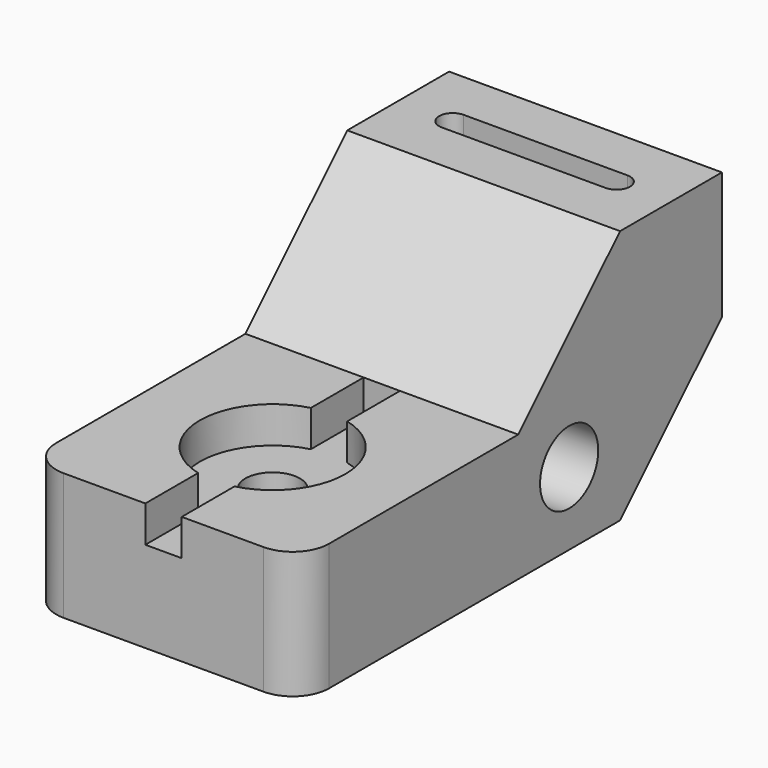
from build123d import *

# Parameters (mm, degrees)
F1_DEPTH       = 76.2
F3_DEPTH       = 35.561
F7_D           = 7.62
F7_DEPTH       = 27.94
F7_TIP         = 2.2892789585
F8_DEPTH       = 27.94
F9_D           = 15.24
F9_CBORE_D     = 40.64
F9_CBORE_DEPTH = 10.16
F10_DEPTH      = 10.16
F4_R           = 10.16
F11_DEPTH      = 76.201


with BuildPart() as f1:
    # F0 (on Right) → F1 (new body)
    with BuildSketch(Plane.YZ):
        Polygon((0, 35.56), (0, 0), (111.76, 0), (147.32, 35.56), (147.32, 71.12), (111.76, 71.12), (76.2, 35.56), align=None)
    extrude(amount=F1_DEPTH)

    # F2 (on face) → F3 (cut, through all)
    with BuildSketch(Plane.XY.offset(35.56)):
        with BuildLine():
            Line((0, 0), (10.16, 0))
            ThreePointArc((10.16, 0), (2.9757951031, 2.9757951031), (0, 10.16))
            Line((0, 10.16), (0, 0))
        make_face()
        with BuildLine():
            ThreePointArc((76.2, 10.16), (73.2242048969, 2.9757951031), (66.04, 0))
            Line((66.04, 0), (76.2, 0))
            Line((76.2, 0), (76.2, 10.16))
        make_face()
    extrude(amount=-F3_DEPTH, mode=Mode.SUBTRACT)

    # F7
    with Locations(Plane.XY.offset(71.12)):
        with Locations((15.24, 129.54), (60.96, 129.54)):
            Hole(F7_D / 2, depth=F7_DEPTH)
            with Locations((0, 0, -(F7_DEPTH + F7_TIP / 2))):  # 118° drill point
                Cone(0, F7_D / 2, F7_TIP, mode=Mode.SUBTRACT)

    # F5 (on face) → F8 (cut)
    with BuildSketch(Plane.XY.offset(71.12)):
        with BuildLine():
            ThreePointArc((15.24, 133.35), (11.43, 129.54), (15.24, 125.73))
            Line((15.24, 125.73), (60.96, 125.73))
            ThreePointArc((60.96, 125.73), (64.77, 129.54), (60.96, 133.35))
            Line((60.96, 133.35), (15.24, 133.35))
        make_face()
    extrude(amount=-F8_DEPTH, mode=Mode.SUBTRACT)

    # F9 (through all)
    with Locations(Plane.XY.offset(35.56)):
        with Locations((38.1, 38.1)):
            CounterBoreHole(F9_D / 2, F9_CBORE_D / 2, F9_CBORE_DEPTH)

    # F6 (on face) → F10 (cut)
    with BuildSketch(Plane.XY.offset(35.56)):
        with BuildLine():
            Line((43.18, 0), (43.18, 32.4203873372))
            ThreePointArc((43.18, 32.4203873372), (38.1, 30.48), (33.02, 32.4203873372))
            Line((33.02, 32.4203873372), (33.02, 0))
            Line((33.02, 0), (43.18, 0))
        make_face()
        with BuildLine():
            ThreePointArc((33.02, 43.7796126628), (38.1, 45.72), (43.18, 43.7796126628))
            Line((43.18, 43.7796126628), (43.18, 76.2))
            Line((43.18, 76.2), (33.02, 76.2))
            Line((33.02, 76.2), (33.02, 43.7796126628))
        make_face()
    extrude(amount=-F10_DEPTH, mode=Mode.SUBTRACT)

    # F4 (on face) → F11 (cut, through all)
    with BuildSketch(Plane.YZ.offset(76.2)):
        with Locations((93.98, 20.32)):
            Circle(F4_R)
    extrude(amount=-F11_DEPTH, mode=Mode.SUBTRACT)


solid = f1.part
